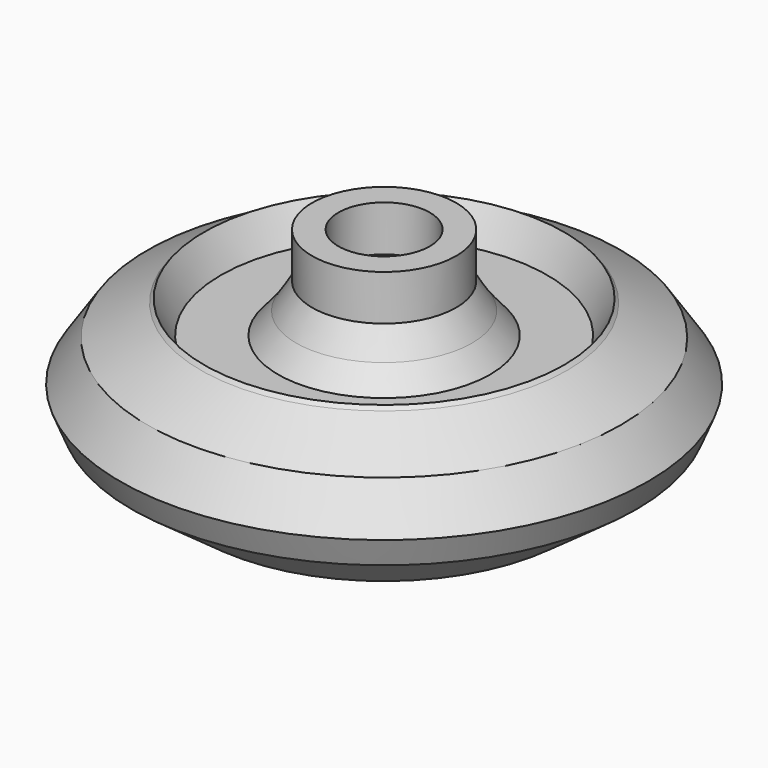
from build123d import *


with BuildPart() as f1:
    # F0 (on Front) → F1 (revolve)
    with BuildSketch(Plane.XZ):
        Polygon((0, 50.165), (0, 22.225), (3.175, 22.225), (3.175, 0), (38.178525, 15.045373), (52.5924, 25.455397), (54.996716, 31.332621), (49.322252, 39.84432), (38.178525, 46.254948), (37.510249, 47.017019), (34.01539, 40.245729), (26.39539, 40.245729), (22.086097, 40.245729), (18.335629, 44.797264), (15.001873, 50.214611), (15.001873, 59.69), (9.525, 59.69), (9.525, 50.165), align=None)
    revolve(axis=Axis((0, 0, 36.195), (0, 0, -1)))


solid = f1.part
